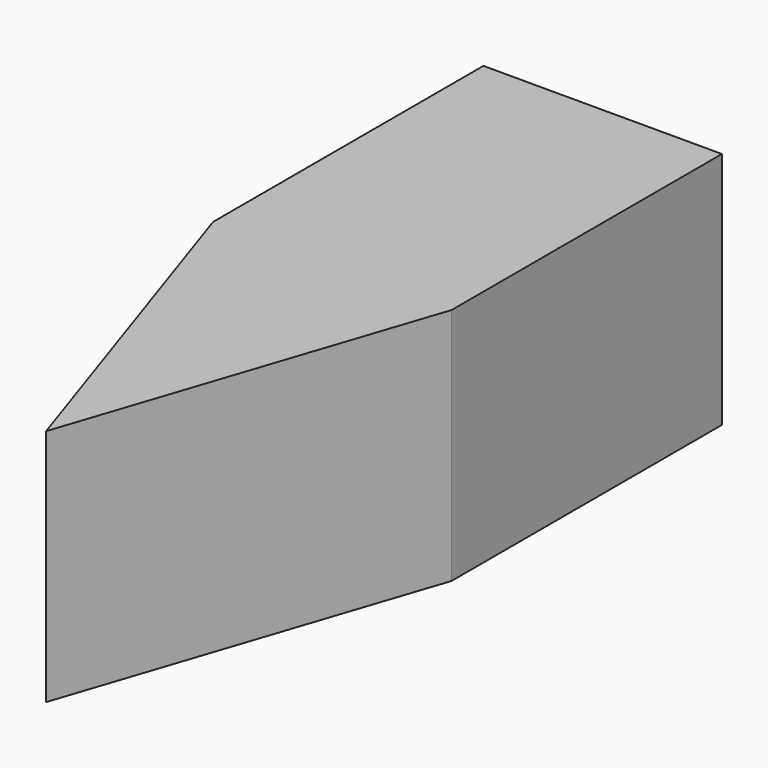
from build123d import *

# Parameters (mm, degrees)
F0_W     = 12
F0_H     = 12
F1_DEPTH = 35
F3_DEPTH = 25
F5_D     = 6.8
F5_DEPTH = 22
F5_TIP   = 2.0429261047


with BuildPart() as f1:
    # F0 (on Front) → F1 (new body)
    with BuildSketch(Plane.XZ):
        Rectangle(F0_W, F0_H)
    extrude(amount=F1_DEPTH)

    # F2 (on face) → F3 (cut)
    with BuildSketch(Plane.XY.offset(6)):
        Polygon((-6, -35), (0, -35), (-6, -17), align=None)
        Polygon((6, -17), (0, -35), (6, -35), align=None)
    extrude(amount=-F3_DEPTH, mode=Mode.SUBTRACT)

    # F5
    with Locations(Plane(origin=(0, 0, 0), x_dir=(-1, 0, 0), z_dir=(0, 1, 0))):
        with Locations((0, 0)):
            Hole(F5_D / 2, depth=F5_DEPTH)
            with Locations((0, 0, -(F5_DEPTH + F5_TIP / 2))):  # 118° drill point
                Cone(0, F5_D / 2, F5_TIP, mode=Mode.SUBTRACT)


solid = f1.part
